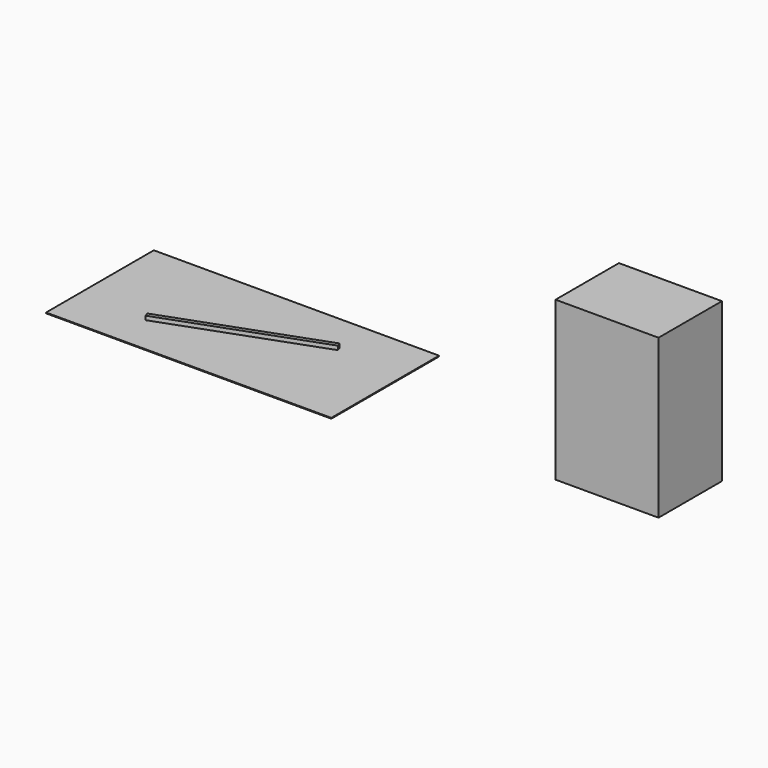
from build123d import *

# Parameters (mm, degrees)
EXTRUDE_DEPTH    = 50
SKETCH001_W      = 3600
SKETCH001_H      = 1700
EXTRUDE001_DEPTH = 10
SKETCH002_W      = 1300
SKETCH002_H      = 1000
EXTRUDE002_DEPTH = 2000


with BuildPart() as extrude_body:
    # Sketch → Extrude (new body)
    with BuildSketch(Plane.XY):
        Polygon((-948.243124, -318.527828), (931.142117, 365.512459), (948.243124, 318.527828), (-931.142117, -365.512459), align=None)
    extrude(amount=EXTRUDE_DEPTH)


with BuildPart() as extrude001:
    # Sketch001 (on Face5 of Extrude) → Extrude001 (new body)
    with BuildSketch(Plane(origin=(0, 0, 0), x_dir=(1, 0, 0), z_dir=(0, 0, -1))):
        Rectangle(SKETCH001_W, SKETCH001_H)
    extrude(amount=EXTRUDE001_DEPTH)


with BuildPart() as extrude002:
    # Sketch002 (on Face5 of Extrude001) → Extrude002 (new body)
    with BuildSketch(Plane.XY):
        with Locations((5000, 0)):
            Rectangle(SKETCH002_W, SKETCH002_H)
    extrude(amount=EXTRUDE002_DEPTH)


solid = Compound([extrude_body.part, extrude001.part, extrude002.part])
